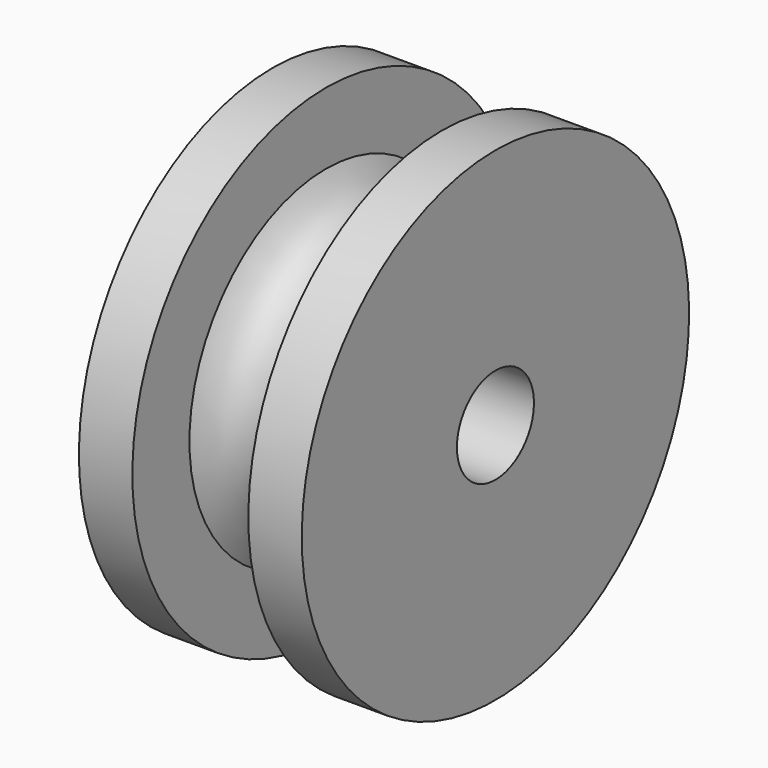
from build123d import *

# Parameters (mm, degrees)
F2_R     = 0.970502
F3_DEPTH = 25.4


with BuildPart() as f1:
    # F0 (on Front) → F1 (revolve)
    with BuildSketch(Plane.XZ):
        Polygon((-1.169414, 4.881596), (-2.247044, 4.881596), (-2.247044, 0), (-1.169414, 0), (-1.169414, 3.44253), align=None)
        with BuildLine():
            add(Edge.make_bspline(
                [(-1.169414, 3.44253), (-0.829342, 2.759905), (-0.527717, 2.77578), (0, 2.77578)],
                knots=[0, 0, 0, 0, 1.346137, 1.346137, 1.346137, 1.346137], degree=3))
            Line((-1.169414, 3.44253), (-1.169414, 0))
            Line((-1.169414, 0), (1.169414, 0))
            Line((1.169414, 0), (1.169414, 3.44253))
            add(Edge.make_bspline(
                [(1.169414, 3.44253), (0.829342, 2.759905), (0.527717, 2.77578), (0, 2.77578)],
                knots=[0, 0, 0, 0, 1.346137, 1.346137, 1.346137, 1.346137], degree=3))
        make_face()
        Polygon((1.169414, 3.44253), (1.169414, 0), (2.247044, 0), (2.247044, 4.881596), (1.169414, 4.881596), align=None)
    revolve(axis=Axis((0, 0, 0), (1, 0, 0)))

    # F2 (on face) → F3 (cut)
    with BuildSketch(Plane(origin=(-2.247044, 0, 0), x_dir=(0, -1, 0), z_dir=(-1, 0, 0))):
        Circle(F2_R)
    extrude(amount=-F3_DEPTH, mode=Mode.SUBTRACT)


solid = f1.part
